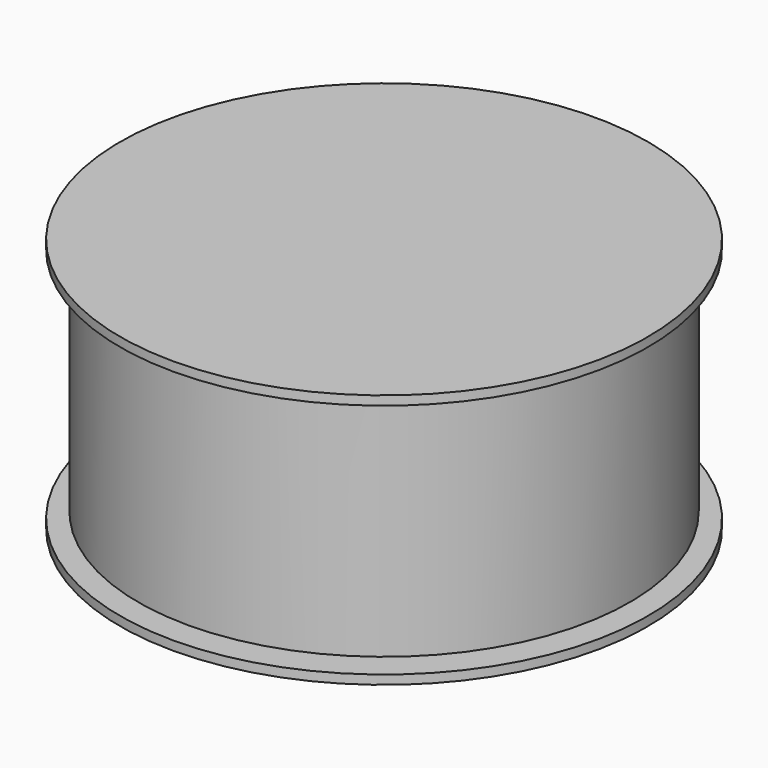
from build123d import *

# Parameters (mm, degrees)
F0_R     = 10.78
F0_R_2   = 7.14
F1_DEPTH = 5
F2_W     = 7.9
F2_H     = 24.657178


with BuildPart() as f1:
    # F0 (on Top) → F1 (new body)
    with BuildSketch(Plane.XY):
        Circle(F0_R)
        Circle(F0_R_2, mode=Mode.SUBTRACT)
    extrude(amount=F1_DEPTH)


with BuildPart() as f3:
    # F2 (on Right) → F3 (revolve)
    with BuildSketch(Plane.YZ):
        Polygon((0, -14), (0, 14), (-29, 14), (-29, 13), (-19, 13), (-19, -13), (-29, -13), (-29, -14), align=None)
        with Locations((-23.05, 0)):
            Rectangle(F2_W, F2_H)
    revolve(axis=Axis((0, 0, 21.898381), (0, 0, 1)))


solid = Compound([f1.part, f3.part])
